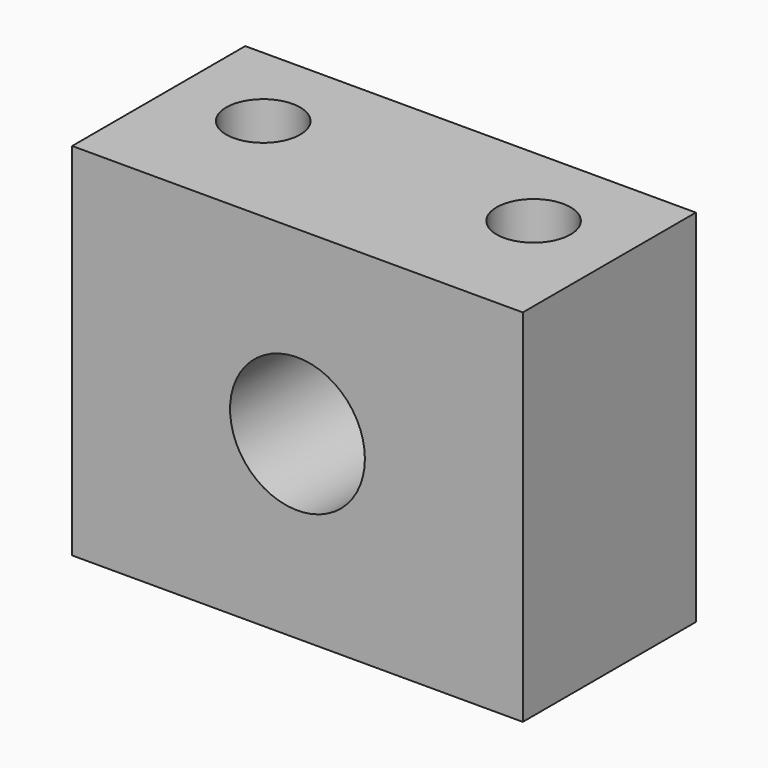
from build123d import *

# Parameters (mm, degrees)
F0_W     = 31.75
F0_H     = 25.4
F1_DEPTH = 12.7
F2_R     = 4.7498
F3_DEPTH = 12.7
F4_R     = 9.525
F4_R_2   = 4.7498
F4_R_3   = 3.96875
F5_DEPTH = 3.175
F7_D     = 5.207
F4_W     = 31.75
F4_H     = 25.4
F9_DEPTH = 2.54


with BuildPart() as f1:
    # F0 (on Front) → F1 (new body)
    with BuildSketch(Plane.XZ):
        with Locations((15.875, 12.7)):
            Rectangle(F0_W, F0_H)
    extrude(amount=F1_DEPTH)

    # F2 (on face) → F3 (cut, through all)
    with BuildSketch(Plane.XZ.offset(12.7)):
        with Locations((15.875, 12.7)):
            Circle(F2_R)
    extrude(amount=-F3_DEPTH, mode=Mode.SUBTRACT)

    # F7 (through all)
    with Locations(Plane(origin=(0, 0, 0), x_dir=(1, 0, 0), z_dir=(0, 0, -1))):
        with Locations((6.35, 6.35), (25.4, 6.35)):
            Hole(F7_D / 2)

    # F4 (on face) → F9 (join)
    with BuildSketch(Plane.XZ.offset(12.7)):
        with Locations((15.875, 12.7)):
            Rectangle(F4_W, F4_H)
        with Locations((15.875, 12.7)):
            Circle(F4_R, mode=Mode.SUBTRACT)
        with Locations((15.875, 12.7)):
            Circle(F4_R)
        with Locations((15.875, 12.7)):
            Circle(F4_R_2, mode=Mode.SUBTRACT)
    extrude(amount=F9_DEPTH)


with BuildPart() as f5:
    # F4 (on face) → F5 (new body)
    with BuildSketch(Plane.XZ.offset(12.7)):
        with Locations((15.875, 12.7)):
            Circle(F4_R)
        with Locations((15.875, 12.7)):
            Circle(F4_R_2, mode=Mode.SUBTRACT)
        with Locations((15.875, 12.7)):
            Circle(F4_R_2)
        with Locations((15.875, 12.7)):
            Circle(F4_R_3, mode=Mode.SUBTRACT)
    extrude(amount=F5_DEPTH)


solid = f1.part
